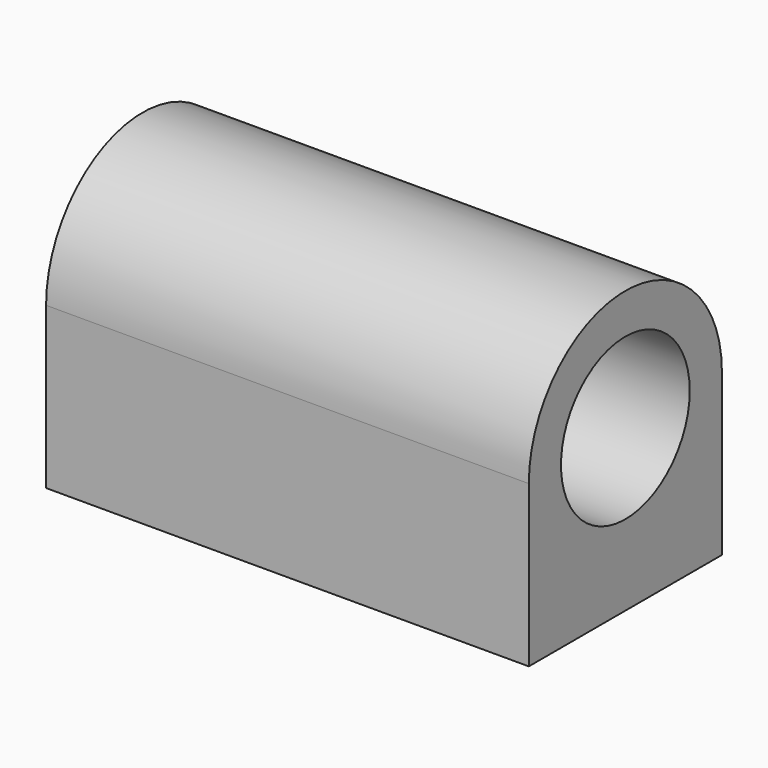
from build123d import *

# Parameters (mm, degrees)
F0_R     = 12.7
F1_DEPTH = 76.2
F4_D     = 3.302
F4_DEPTH = 12.7
F4_TIP   = 0.992020882


with BuildPart() as f1:
    # F0 (on Right) → F1 (new body)
    with BuildSketch(Plane.YZ):
        with BuildLine():
            Line((19.05, -25.4), (19.05, 0))
            ThreePointArc((19.05, 0), (0, 19.05), (-19.05, 0))
            Line((-19.05, 0), (-19.05, -25.4))
            Line((-19.05, -25.4), (19.05, -25.4))
        make_face()
        Circle(F0_R, mode=Mode.SUBTRACT)
    extrude(amount=F1_DEPTH)

    # F4
    with Locations(Plane(origin=(0, 0, -25.4), x_dir=(1, 0, 0), z_dir=(0, 0, -1))):
        with Locations((6.35, 12.7), (6.35, -12.7), (69.85, -12.7), (69.85, 12.7)):
            Hole(F4_D / 2, depth=F4_DEPTH)
            with Locations((0, 0, -(F4_DEPTH + F4_TIP / 2))):  # 118° drill point
                Cone(0, F4_D / 2, F4_TIP, mode=Mode.SUBTRACT)


solid = f1.part
